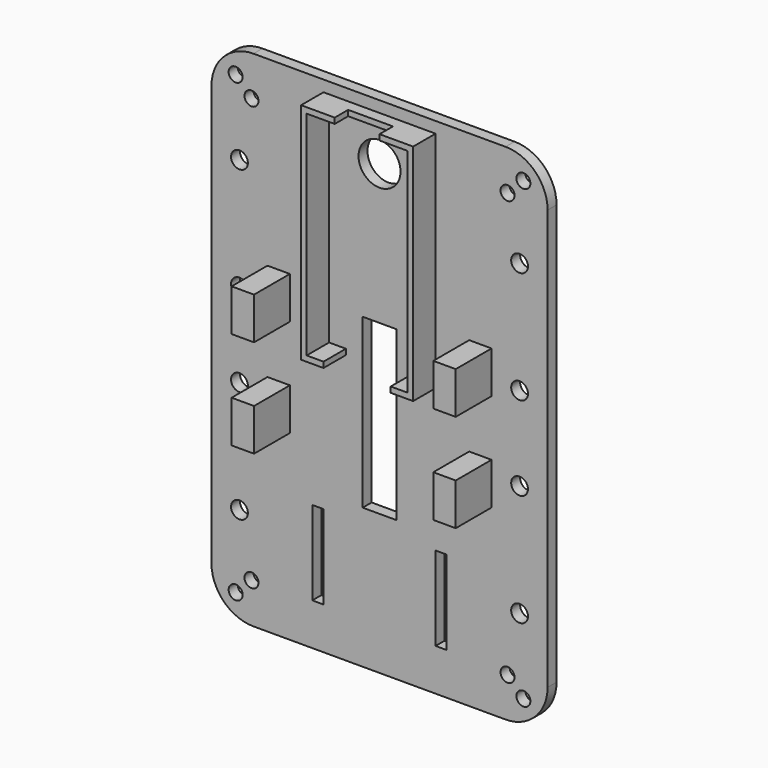
from build123d import *

# Parameters (mm, degrees)
F0_W      = 60
F0_H      = 90
F1_DEPTH  = 2
F2_R      = 7.5
F4_W      = 2
F4_H      = 15
F5_DEPTH  = 25
F6_W      = 20
F6_H      = 40
F6_W_2    = 18
F6_H_2    = 38
F7_DEPTH  = 5
F8_W      = 8
F8_H      = 1
F9_DEPTH  = 3
F10_W     = 12
F10_H     = 1
F11_DEPTH = 5
F12_R     = 1.25
F13_DEPTH = 25
F14_W     = 6
F14_H     = 30
F15_DEPTH = 25
F16_R     = 3.75
F17_DEPTH = 25
F18_R     = 1.5
F19_DEPTH = 25
F20_W     = 4
F20_H     = 25
F21_DEPTH = 8
F22_R     = 1.5
F23_DEPTH = 25
F24_W     = 4
F24_H     = 10
F25_DEPTH = 8


with BuildPart() as f1:
    # F0 (on Front) → F1 (new body)
    with BuildSketch(Plane.XZ):
        with Locations((30, 45)):
            Rectangle(F0_W, F0_H)
    extrude(amount=F1_DEPTH)

    # F2
    f2_edges = [f1.edges().sort_by_distance(p)[0] for p in [
        (0, -1, 90),
        (60, -1, 90),
        (60, -1, 0),
        (0, -1, 0),
    ]]
    fillet(f2_edges, radius=F2_R)

    # F4 (on face) → F5 (cut)
    with BuildSketch(Plane.XZ.offset(2)):
        with Locations((19, 15)):
            Rectangle(F4_W, F4_H)
        with Locations((41, 15)):
            Rectangle(F4_W, F4_H)
    extrude(amount=-F5_DEPTH, mode=Mode.SUBTRACT)

    # F6 (on face) → F7 (join)
    with BuildSketch(Plane.XZ.offset(2)):
        with Locations((30, 68)):
            Rectangle(F6_W, F6_H)
        with Locations((30, 68)):
            Rectangle(F6_W_2, F6_H_2, mode=Mode.SUBTRACT)
    extrude(amount=F7_DEPTH)

    # F8 (on face) → F9 (cut)
    with BuildSketch(Plane.XZ.offset(7)):
        with Locations((30, 87.5)):
            Rectangle(F8_W, F8_H)
    extrude(amount=-F9_DEPTH, mode=Mode.SUBTRACT)

    # F10 (on face) → F11 (cut)
    with BuildSketch(Plane.XZ.offset(7)):
        with Locations((30, 48.5)):
            Rectangle(F10_W, F10_H)
    extrude(amount=-F11_DEPTH, mode=Mode.SUBTRACT)

    # F12 (on face) → F13 (cut)
    with BuildSketch(Plane.XZ.offset(2)):
        with Locations((7.146447, 82.853553)):
            Circle(F12_R)
        with Locations((52.853553, 82.853553)):
            Circle(F12_R)
        with Locations((55.681981, 4.318019)):
            Circle(F12_R)
        with Locations((4.318019, 4.318019)):
            Circle(F12_R)
        with Locations((7.146447, 7.146447)):
            Circle(F12_R)
        with Locations((52.853553, 7.146447)):
            Circle(F12_R)
        with Locations((55.681981, 85.681981)):
            Circle(F12_R)
        with Locations((4.318019, 85.681981)):
            Circle(F12_R)
    extrude(amount=-F13_DEPTH, mode=Mode.SUBTRACT)

    # F14 (on face) → F15 (cut)
    with BuildSketch(Plane.XZ.offset(2)):
        with Locations((30, 40)):
            Rectangle(F14_W, F14_H)
    extrude(amount=-F15_DEPTH, mode=Mode.SUBTRACT)

    # F16 (on face) → F17 (cut)
    with BuildSketch(Plane.XZ.offset(2)):
        with Locations((30, 80)):
            Circle(F16_R)
    extrude(amount=-F17_DEPTH, mode=Mode.SUBTRACT)

    # F18 (on face) → F19 (cut)
    with BuildSketch(Plane.XZ.offset(2)):
        with Locations((5, 17.5)):
            Circle(F18_R)
        with Locations((5, 72.5)):
            Circle(F18_R)
        with Locations((55, 72.5)):
            Circle(F18_R)
        with Locations((55, 17.5)):
            Circle(F18_R)
    extrude(amount=-F19_DEPTH, mode=Mode.SUBTRACT)

    # F20 (on face) → F21 (join)
    with BuildSketch(Plane.XZ.offset(2)):
        with Locations((12, 45)):
            Rectangle(F20_W, F20_H)
        with Locations((48, 45)):
            Rectangle(F20_W, F20_H)
    extrude(amount=F21_DEPTH)

    # F22 (on face) → F23 (cut)
    with BuildSketch(Plane.XZ.offset(2)):
        with Locations((5, 52.5)):
            Circle(F22_R)
        with Locations((5, 37.5)):
            Circle(F22_R)
        with Locations((55, 52.5)):
            Circle(F22_R)
        with Locations((55, 37.5)):
            Circle(F22_R)
    extrude(amount=-F23_DEPTH, mode=Mode.SUBTRACT)

    # F24 (on face) → F25 (cut)
    with BuildSketch(Plane.XZ.offset(10)):
        with Locations((12, 45)):
            Rectangle(F24_W, F24_H)
        with Locations((48, 45)):
            Rectangle(F24_W, F24_H)
    extrude(amount=-F25_DEPTH, mode=Mode.SUBTRACT)


solid = f1.part
